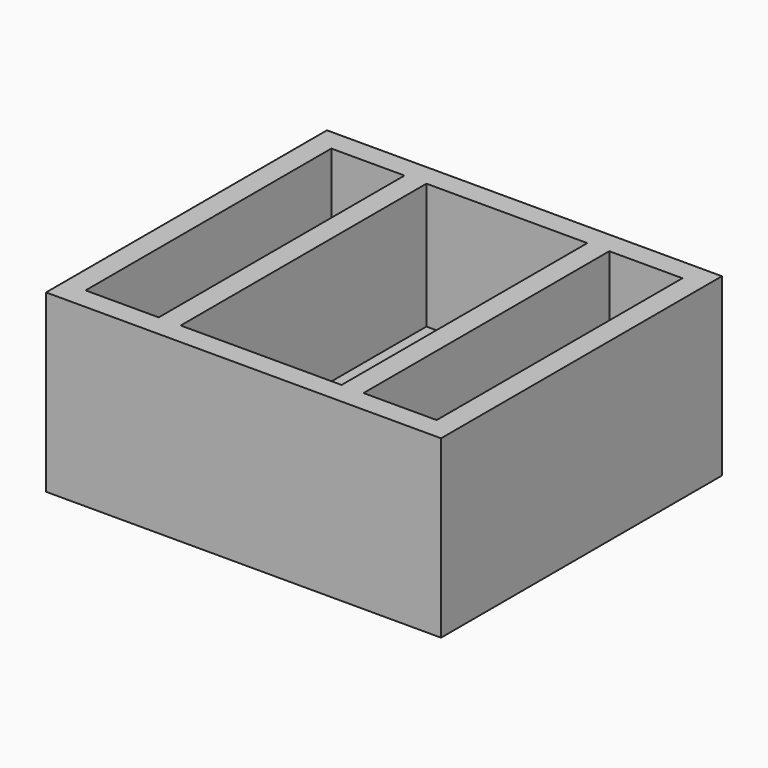
from build123d import *

# Parameters (mm, degrees)
F0_W     = 69.85
F0_H     = 133.35
F1_DEPTH = 76.2
F2_W     = 69.85
F2_H     = 21.59
F3_DEPTH = 133.35


with BuildPart() as f1:
    # F0 (on Top) → F1 (new body)
    with BuildSketch(Plane.XY):
        Polygon((-96.386657, 13.982912), (-137.661657, 13.982912), (-137.661657, -138.417088), (-96.386657, -138.417088), (-96.386657, -128.892088), (-128.136657, -128.892088), (-128.136657, 4.457912), (-96.386657, 4.457912), align=None)
        Polygon((33.788343, 13.982912), (-7.486657, 13.982912), (-7.486657, 4.457912), (24.263343, 4.457912), (24.263343, -128.892088), (-7.486657, -128.892088), (-7.486657, -138.417088), (33.788343, -138.417088), align=None)
        Polygon((-7.486657, 13.982912), (-96.386657, 13.982912), (-96.386657, 4.457912), (-96.386657, -128.892088), (-96.386657, -138.417088), (-7.486657, -138.417088), (-7.486657, -128.892088), (-7.486657, 4.457912), align=None)
        with Locations((-51.936657, -62.217088)):
            Rectangle(F0_W, F0_H, mode=Mode.SUBTRACT)
    extrude(amount=F1_DEPTH)

    # F2 (on face) → F3 (join, through all)
    with BuildSketch(Plane.XZ.offset(-4.457912)):
        with Locations((-51.936657, 10.795)):
            Rectangle(F2_W, F2_H)
    extrude(amount=F3_DEPTH)


solid = f1.part
